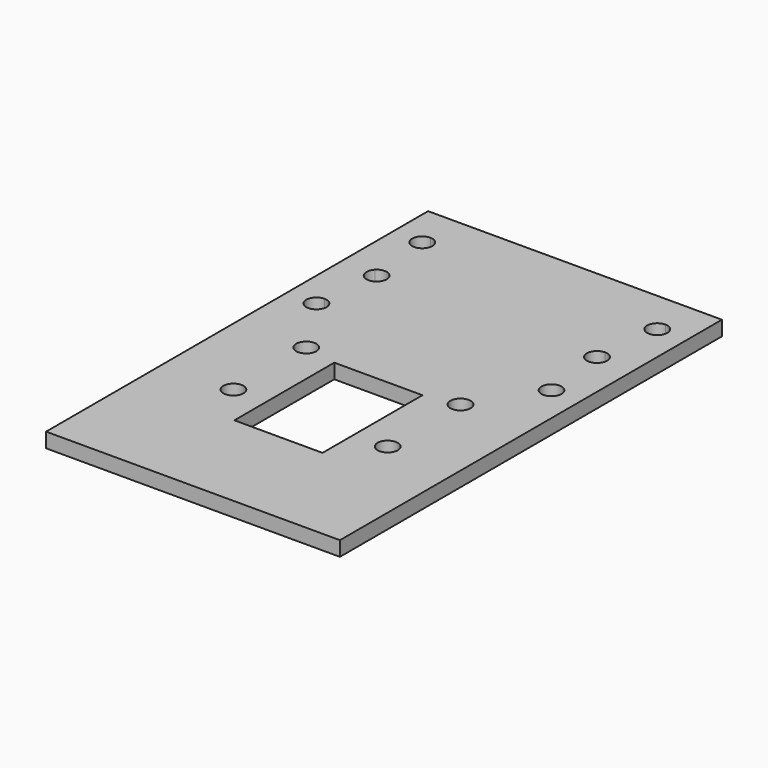
from build123d import *

# Parameters (mm, degrees)
F0_R     = 1.375
F1_DEPTH = 2


with BuildPart() as f1:
    # F0 (on Top) → F1 (new body)
    with BuildSketch(Plane.XY):
        Polygon((0, -63.953846), (20, -63.953846), (20, 1.046154), (16, 1.046154), (-16, 1.046154), (-20, 1.046154), (-20, -63.953846), align=None)
        with Locations((-10.5, -43.953846)):
            Circle(F0_R, mode=Mode.SUBTRACT)
        with Locations((-10.5, -31.553846)):
            Circle(F0_R, mode=Mode.SUBTRACT)
        Polygon((-6, -32.415846), (0, -32.415846), (6, -32.415846), (6, -49.415846), (-6, -49.415846), align=None, mode=Mode.SUBTRACT)
        with Locations((10.5, -43.953846)):
            Circle(F0_R, mode=Mode.SUBTRACT)
        with Locations((10.5, -31.553846)):
            Circle(F0_R, mode=Mode.SUBTRACT)
        with BuildLine():
            ThreePointArc((-14.625, -22.953846), (-16.972272, -23.926118), (-16, -21.578846))
            ThreePointArc((-16, -21.578846), (-15.027728, -21.981574), (-14.625, -22.953846))
        make_face(mode=Mode.SUBTRACT)
        with BuildLine():
            ThreePointArc((-16, -14.897575), (-16.375, -13.953846), (-16, -13.010117))
            ThreePointArc((-16, -13.010117), (-14.492248, -12.676031), (-13.625, -13.953846))
            ThreePointArc((-13.625, -13.953846), (-14.492248, -15.231662), (-16, -14.897575))
        make_face(mode=Mode.SUBTRACT)
        with BuildLine():
            ThreePointArc((-16, -6.328846), (-17.375, -4.953846), (-16, -3.578846))
            ThreePointArc((-16, -3.578846), (-15.027728, -3.981574), (-14.625, -4.953846))
            ThreePointArc((-14.625, -4.953846), (-15.027728, -5.926118), (-16, -6.328846))
        make_face(mode=Mode.SUBTRACT)
        with Locations((16, -22.953846)):
            Circle(F0_R, mode=Mode.SUBTRACT)
        with BuildLine():
            ThreePointArc((16.375, -13.953846), (14.027728, -14.926118), (15, -12.578846))
            ThreePointArc((15, -12.578846), (15.972272, -12.981574), (16.375, -13.953846))
        make_face(mode=Mode.SUBTRACT)
        with BuildLine():
            ThreePointArc((15, -5.897575), (14.737413, -4.409329), (16, -3.578846))
            ThreePointArc((16, -3.578846), (16.972272, -3.981574), (17.375, -4.953846))
            ThreePointArc((17.375, -4.953846), (16.507752, -6.231662), (15, -5.897575))
        make_face(mode=Mode.SUBTRACT)
    extrude(amount=F1_DEPTH)


solid = f1.part
